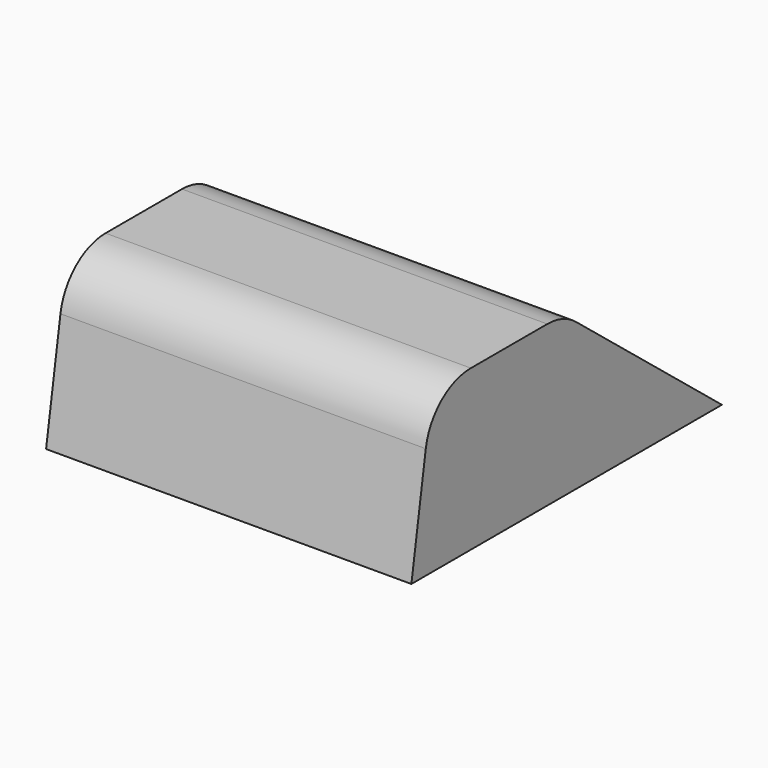
from build123d import *

# Parameters (mm, degrees)
F1_DEPTH = 320


with BuildPart() as f1:
    # F0 (on Right) → F1 (new body)
    with BuildSketch(Plane.YZ):
        with BuildLine():
            Line((15.7389, 97.933687), (0, 0))
            Line((0, 0), (340, 0))
            Line((340, 0), (180.177676, 128.917283))
            ThreePointArc((180.177676, 128.917283), (165.431234, 137.147981), (148.785876, 140))
            Line((148.785876, 140), (65.105454, 140))
            ThreePointArc((65.105454, 140), (32.67618, 128.057091), (15.7389, 97.933687))
        make_face()
    extrude(amount=F1_DEPTH)


solid = f1.part
